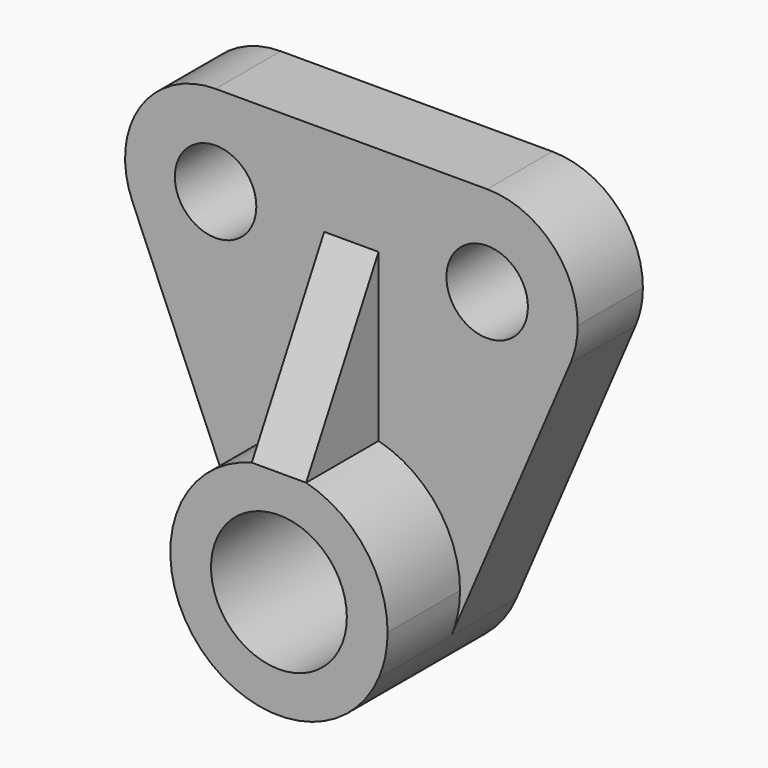
from build123d import *

# Parameters (mm, degrees)
F0_R     = 4.5
F1_DEPTH = 9
F2_DEPTH = 19
F0_R_2   = 7.5
F4_DEPTH = 19
F5_DEPTH = 28.001


with BuildPart() as f1:
    # F0 (on Front) → F1 (new body)
    with BuildSketch(Plane.XZ):
        with BuildLine():
            ThreePointArc((-3, 11.61895), (0, 12), (3, 11.61895))
            Line((3, 11.61895), (3, 30))
            Line((3, 30), (-3, 30))
            Line((-3, 30), (-3, 11.61895))
        make_face()
        with BuildLine():
            ThreePointArc((3, 11.61895), (9.486833, 7.348469), (12, 0))
            ThreePointArc((12, 0), (11.756027, -2.407453), (11.034028, -4.717014))
            Line((11.034028, -4.717014), (24.195023, 26.069155))
            ThreePointArc((24.195023, 26.069155), (6.654089, 24.4913), (15, 40))
            Line((15, 40), (-15, 40))
            ThreePointArc((-15, 40), (-7.928932, 37.071068), (-5, 30))
            ThreePointArc((-5, 30), (-12.993789, 20.203311), (-24.195023, 26.069155))
            Line((-24.195023, 26.069155), (-11.034028, -4.717014))
            ThreePointArc((-11.034028, -4.717014), (-10.768213, 5.295808), (-3, 11.61895))
            Line((-3, 11.61895), (-3, 30))
            Line((-3, 30), (3, 30))
            Line((3, 30), (3, 11.61895))
        make_face()
        with BuildLine():
            ThreePointArc((-15, 40), (-23.345911, 35.5087), (-24.195023, 26.069155))
            ThreePointArc((-24.195023, 26.069155), (-12.993789, 20.203311), (-5, 30))
            ThreePointArc((-5, 30), (-7.928932, 37.071068), (-15, 40))
        make_face()
        with Locations((-15, 30)):
            Circle(F0_R, mode=Mode.SUBTRACT)
        with BuildLine():
            ThreePointArc((15, 40), (6.654089, 24.4913), (24.195023, 26.069155))
            ThreePointArc((24.195023, 26.069155), (24.796689, 27.993789), (25, 30))
            ThreePointArc((25, 30), (22.071068, 37.071068), (15, 40))
        make_face()
        with Locations((15, 30)):
            Circle(F0_R, mode=Mode.SUBTRACT)
    extrude(amount=F1_DEPTH)

    # F0 (on Front) → F2 (join)
    with BuildSketch(Plane.XZ):
        with BuildLine():
            ThreePointArc((-3, 11.61895), (0, 12), (3, 11.61895))
            Line((3, 11.61895), (3, 30))
            Line((3, 30), (-3, 30))
            Line((-3, 30), (-3, 11.61895))
        make_face()
    extrude(amount=F2_DEPTH)

    # F0 (on Front) → F4 (join)
    with BuildSketch(Plane.XZ):
        with BuildLine():
            ThreePointArc((11.034028, -4.717014), (11.756027, -2.407453), (12, 0))
            ThreePointArc((12, 0), (9.486833, 7.348469), (3, 11.61895))
            ThreePointArc((3, 11.61895), (0, 12), (-3, 11.61895))
            ThreePointArc((-3, 11.61895), (-10.768213, 5.295808), (-11.034028, -4.717014))
            ThreePointArc((-11.034028, -4.717014), (0, -12), (11.034028, -4.717014))
        make_face()
        Circle(F0_R_2, mode=Mode.SUBTRACT)
    extrude(amount=F4_DEPTH)

    # F3 (on face) → F5 (cut, through all)
    with BuildSketch(Plane(origin=(-3, 0, 0), x_dir=(0, -1, 0), z_dir=(-1, 0, 0))):
        Polygon((19, 30), (9, 30), (19, 11.61895), align=None)
    extrude(amount=-F5_DEPTH, mode=Mode.SUBTRACT)


solid = f1.part
